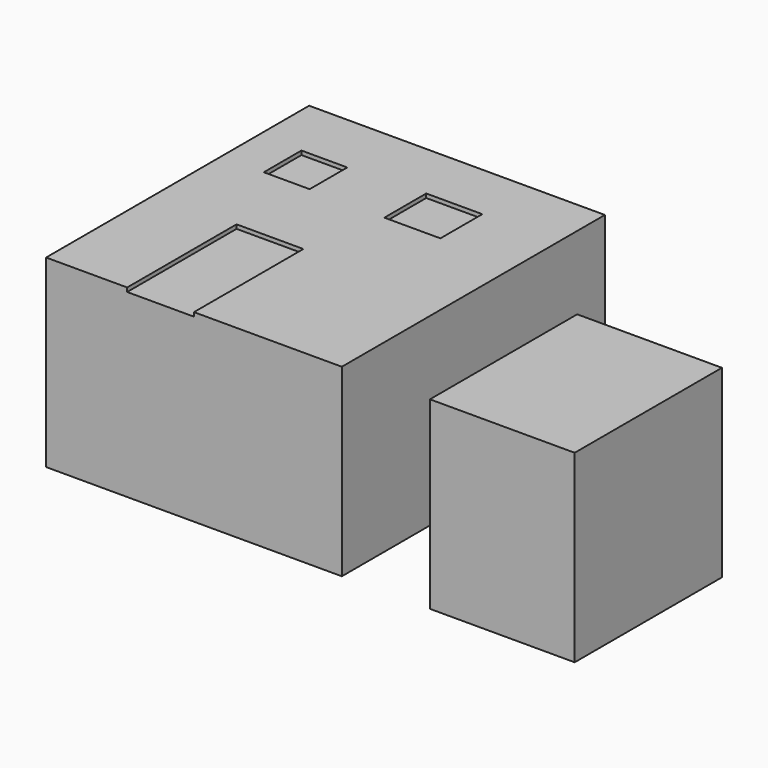
from build123d import *

# Parameters (mm, degrees)
F0_W     = 37.4642126262
F0_H     = 41.6490398347
F1_DEPTH = 23.368
F0_W_2   = 18.3335468173
F0_H_2   = 23.3154930174
F2_W     = 5.8058956638
F2_H     = 5.9576556087
F2_W_2   = 7.1008522063
F2_H_2   = 6.6343583167
F2_W_3   = 8.4620676935
F2_H_3   = 17.3213407397
F3_DEPTH = 0.508


with BuildPart() as f1:
    # F0 (on Top) → F1 (new body)
    with BuildSketch(Plane.XY):
        with Locations((27.0021278411, 20.8245199174)):
            Rectangle(F0_W, F0_H)
    extrude(amount=F1_DEPTH)

    # F2 (on face) → F3 (cut)
    with BuildSketch(Plane.XY.offset(23.368)):
        with Locations((16.5800447576, 30.6956470013)):
            Rectangle(F2_W, F2_H)
        with Locations((32.6137794182, 30.8863837272)):
            Rectangle(F2_W_2, F2_H_2)
        with Locations((22.7710939944, 8.6606703699)):
            Rectangle(F2_W_3, F2_H_3)
    extrude(amount=-F3_DEPTH, mode=Mode.SUBTRACT)


with BuildPart() as f1b:
    # F0 (on Top) → F1, piece 2 (new body)
    with BuildSketch(Plane.XY):
        with Locations((66.0605579615, 11.6577465087)):
            Rectangle(F0_W_2, F0_H_2)
    extrude(amount=F1_DEPTH)


solid = Compound([f1.part, f1b.part])
